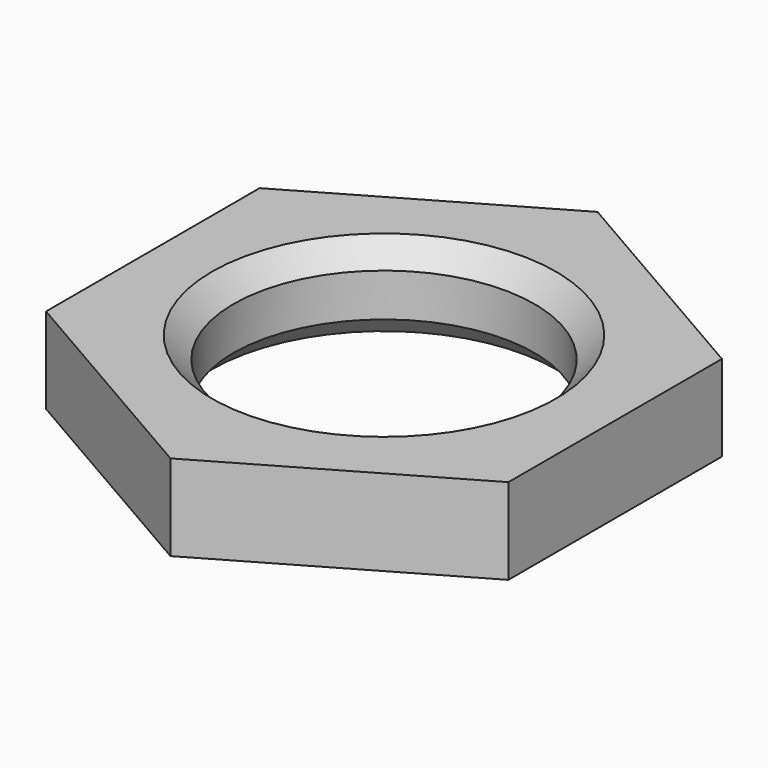
from build123d import *

# Parameters (mm, degrees)
SKETCH019_R             = 3.5
PAD011_DEPTH            = 2
CHAMFER004_SIZE         = 0.5
CHAMFER005_SIZE         = 0.5
BODY007_PITCH_ANGLE     = 90
BODY007_PLACEMENT_ANGLE = 90


with BuildPart() as part:
    # Sketch019 → Pad011 (new body)
    with BuildSketch(Plane.YZ):
        Polygon((5.375, -3.103258), (5.375, 3.103258), (0, 6.206515), (-5.375, 3.103258), (-5.375, -3.103258), (0, -6.206515), align=None)
        Circle(SKETCH019_R, mode=Mode.SUBTRACT)
    extrude(amount=PAD011_DEPTH)

    # Chamfer004
    chamfer004_edges = [part.edges().sort_by_distance(p)[0] for p in [
        (0, -3.5, 0),
    ]]
    chamfer(chamfer004_edges, length=CHAMFER004_SIZE)

    # Chamfer005
    chamfer005_edges = [part.edges().sort_by_distance(p)[0] for p in [
        (2, -3.5, 0),
    ]]
    chamfer(chamfer005_edges, length=CHAMFER005_SIZE)


with BuildPart() as part_1:
    # Body007 pitch: moved
    add(part.part.rotate(Axis((0, 0, 0), (0, 1, 0)), BODY007_PITCH_ANGLE))


with BuildPart() as part_2:
    # Body007 placement: moved
    add(part_1.part.moved(Location((0, 0, -3.1))).rotate(Axis((0, 0, -3.1), (0, 0, 1)), BODY007_PLACEMENT_ANGLE))


solid = part_2.part
